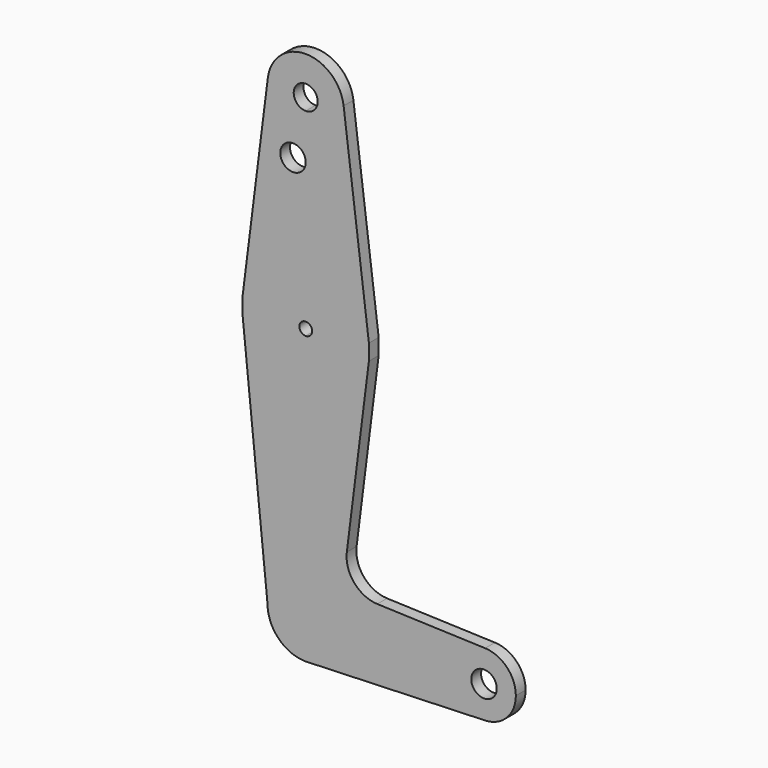
from build123d import *

# Parameters (mm, degrees)
F0_R     = 3.175
F1_DEPTH = 3.048


with BuildPart() as f1:
    # F0 (on Front) → F1 (new body)
    with BuildSketch(Plane.XZ):
        with BuildLine():
            ThreePointArc((0, 104.775), (6.7351920908, 107.5648079092), (9.525, 114.3))
            ThreePointArc((9.525, 114.3), (9.5063048942, 114.896483242), (9.4502929642, 115.490625))
            ThreePointArc((9.4502929642, 115.490625), (0, 123.825), (-9.4502929642, 115.490625))
            ThreePointArc((-9.4502929642, 115.490625), (-7.14375, 107.9998046905), (0, 104.775))
        make_face()
        with BuildLine():
            ThreePointArc((2.9929434448, 114.3), (2.1163306055, 112.1836693945), (0, 111.3070565552))
            ThreePointArc((0, 111.3070565552), (-2.1163306055, 116.4163306055), (2.9929434448, 114.3))
        make_face(mode=Mode.SUBTRACT)
        with BuildLine():
            ThreePointArc((9.4502929642, 115.490625), (9.5063048942, 114.896483242), (9.525, 114.3))
            ThreePointArc((9.525, 114.3), (6.7351920908, 107.5648079092), (0, 104.775))
            Line((0, 104.775), (0, 100.0252))
            Line((0, 100.0252), (0, 79.375))
            ThreePointArc((0, 79.375), (10.5003255158, 75.40625), (15.7504882737, 65.484375))
            Line((15.7504882737, 65.484375), (9.4502929642, 115.490625))
        make_face()
        with BuildLine():
            Line((15.7504882737, 61.515625), (15.7504882737, 65.484375))
            ThreePointArc((15.7504882737, 65.484375), (10.5003255158, 75.40625), (0, 79.375))
            Line((0, 79.375), (0, 65.0875))
            ThreePointArc((0, 65.0875), (1.1225320151, 64.6225320151), (1.5875, 63.5))
            ThreePointArc((1.5875, 63.5), (1.1225320151, 62.3774679849), (0, 61.9125))
            Line((0, 61.9125), (0, 47.625))
            ThreePointArc((0, 47.625), (10.5003255158, 51.59375), (15.7504882737, 61.515625))
        make_face()
        with BuildLine():
            ThreePointArc((0, 79.375), (-10.5003255158, 75.40625), (-15.7504882737, 65.484375))
            Line((-15.7504882737, 65.484375), (-15.7942028036, 61.9003804205))
            ThreePointArc((-15.7942028036, 61.9003804205), (-10.644756084, 51.722700101), (0, 47.625))
            Line((0, 47.625), (0, 61.9125))
            ThreePointArc((0, 61.9125), (-1.5875, 63.5), (0, 65.0875))
            Line((0, 65.0875), (0, 79.375))
        make_face()
        with BuildLine():
            Line((0, 100.0252), (0, 104.775))
            ThreePointArc((0, 104.775), (-7.14375, 107.9998046905), (-9.4502929642, 115.490625))
            Line((-9.4502929642, 115.490625), (-15.7504882737, 65.484375))
            ThreePointArc((-15.7504882737, 65.484375), (-10.5003255158, 75.40625), (0, 79.375))
            Line((0, 79.375), (0, 100.0252))
        make_face()
        with Locations((-3.175, 100.0252)):
            Circle(F0_R, mode=Mode.SUBTRACT)
        with BuildLine():
            ThreePointArc((0, 47.625), (-10.644756084, 51.722700101), (-15.7942028036, 61.9003804205))
            Line((-15.7942028036, 61.9003804205), (-9.525, 0))
            ThreePointArc((-9.525, 0), (-6.7351920908, 6.7351920908), (0, 9.525))
            Line((0, 9.525), (0, 47.625))
        make_face()
        with BuildLine():
            Line((10.2464166598, 17.8284109343), (15.7504882737, 61.515625))
            ThreePointArc((15.7504882737, 61.515625), (10.5003255158, 51.59375), (0, 47.625))
            Line((0, 47.625), (0, 9.525))
            ThreePointArc((0, 9.525), (6.7351920908, 6.7351920908), (9.525, 0))
            Line((9.525, 0), (36.5125, 0))
            ThreePointArc((36.5125, 0), (38.9380895153, 5.7116327839), (44.7324052746, 7.9324746146))
            Line((44.7324052746, 7.9324746146), (17.8514040643, 8.8894693603))
            ThreePointArc((17.8514040643, 8.8894693603), (12.0789940189, 11.6829935205), (10.2464166598, 17.8284109343))
        make_face()
        with BuildLine():
            ThreePointArc((0, 9.525), (-6.7351920908, 6.7351920908), (-9.525, 0))
            ThreePointArc((-9.525, 0), (-6.7351920908, -6.7351920908), (0, -9.525))
            Line((0, -9.525), (0.6773435479, -9.500885786))
            ThreePointArc((0.6773435479, -9.500885786), (6.9705567315, -6.4912990883), (9.525, 0))
            Line((9.525, 0), (0, 0))
            Line((0, 0), (0, 9.525))
        make_face()
        with BuildLine():
            Line((36.5125, 0), (9.525, 0))
            ThreePointArc((9.525, 0), (6.9705567315, -6.4912990883), (0.6773435479, -9.500885786))
            Line((0.6773435479, -9.500885786), (44.7324052746, -7.9324746146))
            ThreePointArc((44.7324052746, -7.9324746146), (38.9380895153, -5.7116327839), (36.5125, 0))
        make_face()
        with BuildLine():
            ThreePointArc((9.525, 0), (6.7351920908, 6.7351920908), (0, 9.525))
            Line((0, 9.525), (0, 0))
            Line((0, 0), (9.525, 0))
        make_face()
        with BuildLine():
            ThreePointArc((52.3875, 0), (50.1616327839, 5.5119104847), (44.7324052746, 7.9324746146))
            ThreePointArc((44.7324052746, 7.9324746146), (38.9380895153, 5.7116327839), (36.5125, 0))
            ThreePointArc((36.5125, 0), (38.9380895153, -5.7116327839), (44.7324052746, -7.9324746146))
            ThreePointArc((44.7324052746, -7.9324746146), (50.1616327839, -5.5119104847), (52.3875, 0))
        make_face()
        with BuildLine():
            ThreePointArc((47.625, 0), (44.45, -3.175), (41.275, 0))
            ThreePointArc((41.275, 0), (44.45, 3.175), (47.625, 0))
        make_face(mode=Mode.SUBTRACT)
    extrude(amount=F1_DEPTH)


solid = f1.part
